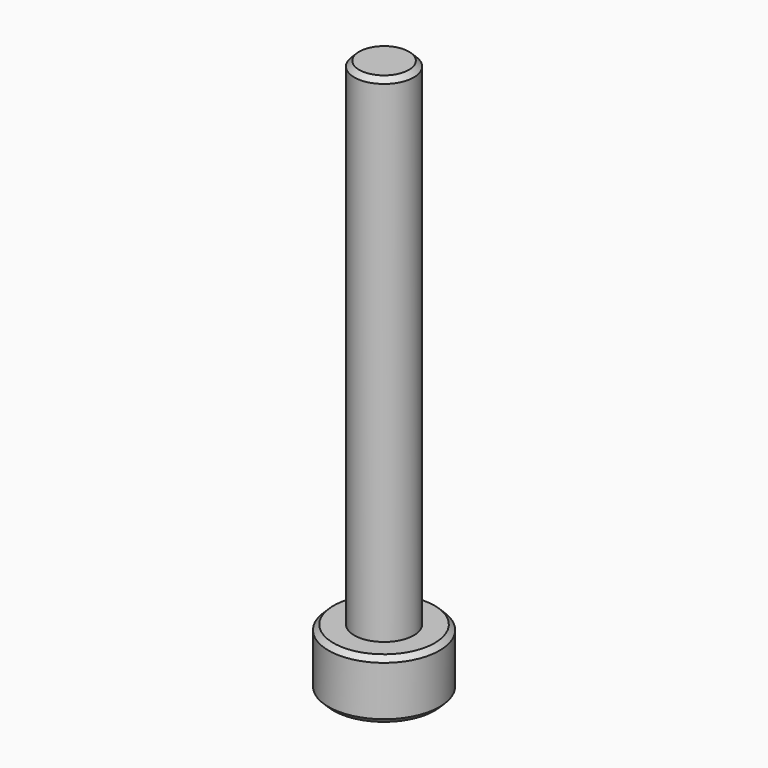
from build123d import *

# Parameters (mm, degrees)
F0_R     = 1.5
F1_DEPTH = 25
F2_R     = 2.8
F3_DEPTH = 3
F5_DEPTH = 1.5
F6_SIZE  = 0.25


with BuildPart() as f1:
    # F0 (on Top) → F1 (new body)
    with BuildSketch(Plane.XY):
        Circle(F0_R)
    extrude(amount=F1_DEPTH)

    # F2 (on Top) → F3 (join)
    with BuildSketch(Plane.XY):
        Circle(F2_R)
    extrude(amount=-F3_DEPTH)

    # F4 (on face) → F5 (cut)
    with BuildSketch(Plane(origin=(0, 0, -3), x_dir=(1, 0, 0), z_dir=(0, 0, -1))):
        Polygon((0.446582, -1.372552), (1.411956, -0.299524), (0.965373, 1.073027), (-0.446582, 1.372552), (-1.411956, 0.299524), (-0.965373, -1.073027), align=None)
    extrude(amount=-F5_DEPTH, mode=Mode.SUBTRACT)

    # F6
    f6_edges = [f1.edges().sort_by_distance(p)[0] for p in [
        (-2.8, 0, -3),
        (-1.5, 0, 25),
        (-2.8, 0, 0),
    ]]
    chamfer(f6_edges, length=F6_SIZE)


solid = f1.part
